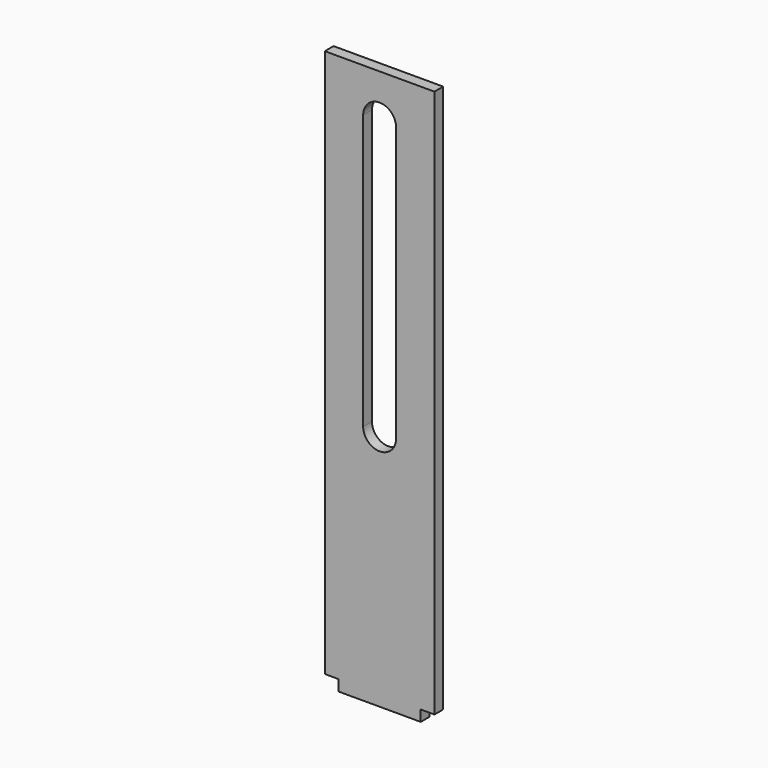
from build123d import *

# Parameters (mm, degrees)
F1_DEPTH = 2


with BuildPart() as f1:
    # F0 (on Front) → F1 (new body)
    with BuildSketch(Plane.XZ):
        Polygon((0, 2), (0, 0), (15, 0), (15, 2), (17.5, 2), (17.5, 102), (-2.5, 102), (-2.5, 2), align=None)
        with BuildLine():
            Line((4.5, 44), (4.5, 94))
            ThreePointArc((4.5, 94), (7.5, 97), (10.5, 94))
            Line((10.5, 94), (10.5, 44))
            ThreePointArc((10.5, 44), (7.5, 41), (4.5, 44))
        make_face(mode=Mode.SUBTRACT)
    extrude(amount=F1_DEPTH)


solid = f1.part
